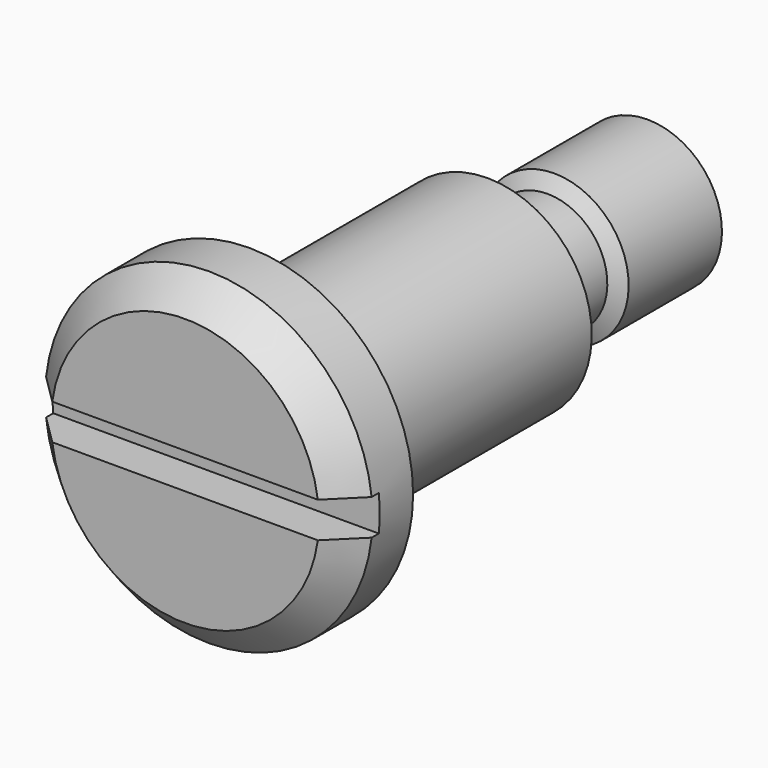
from build123d import *

# Parameters (mm, degrees)
SKETCH001_W  = 1.2
SKETCH001_H  = 11
POCKET_DEPTH = 1.3


with BuildPart() as part:
    # Sketch → Revolution (revolve)
    with BuildSketch(Plane.YZ):
        Polygon((0, 0), (0, 4.5), (1, 5.5), (2.7, 5.5), (2.7, 3.5), (12.7, 3.5), (12.7, 2.01), (15.217098, 2.01), (15.5, 2.5), (19.417098, 2.5), (19.7, 2.01), (19.7, 0), align=None)
    revolve(axis=Axis((0, 0, 0), (0, 1, 0)))

    # Sketch001 → Pocket (cut)
    with BuildSketch(Plane(origin=(0, 0, 0), x_dir=(0, 0, -1), z_dir=(0, -1, 0))):
        Rectangle(SKETCH001_W, SKETCH001_H)
    extrude(amount=-POCKET_DEPTH, mode=Mode.SUBTRACT)


solid = part.part
